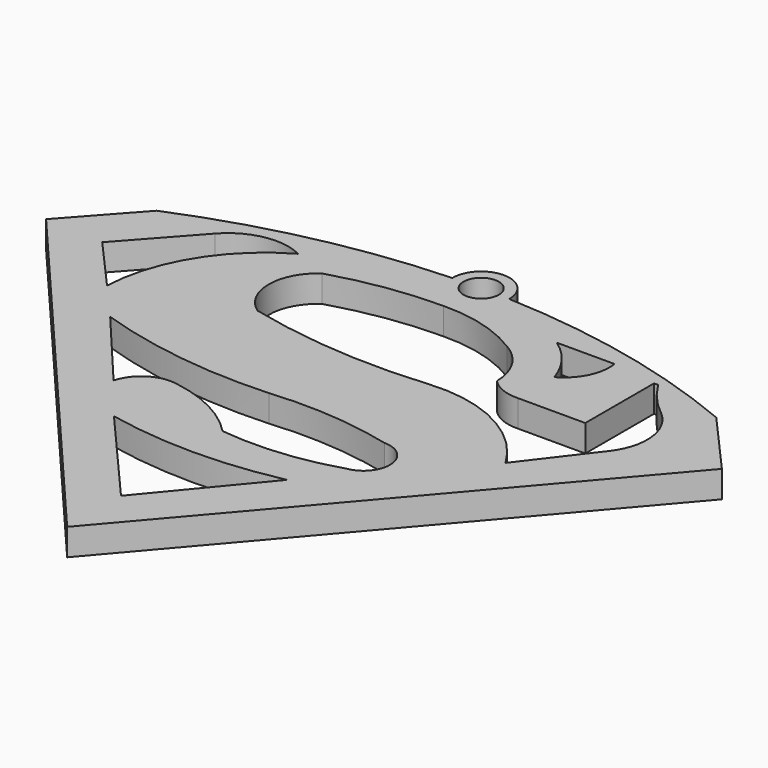
from build123d import *

# Parameters (mm, degrees)
F0_R     = 1.646615
F1_DEPTH = 2.5


with BuildPart() as f1:
    # F0 (on Top) → F1 (new body)
    with BuildSketch(Plane.XY):
        with BuildLine():
            Line((6.782061, 43.783344), (1.339942, 37.715692))
            Line((1.339942, 37.715692), (32.819644, 0.821015))
            Line((32.819644, 0.821015), (64.310387, 37.715692))
            Line((64.310387, 37.715692), (58.925344, 43.783344))
            ThreePointArc((58.925344, 43.783344), (47.44252, 47.407221), (35.499814, 48.94329))
            ThreePointArc((35.499814, 48.94329), (32.853702, 51.641547), (30.207591, 48.94329))
            ThreePointArc((30.207591, 48.94329), (18.264885, 47.407221), (6.782061, 43.783344))
        make_face()
        with BuildLine():
            Line((32.819644, 7.092091), (24.589587, 16.557606))
            ThreePointArc((24.589587, 16.557606), (32.641053, 15.739756), (40.688567, 16.595621))
            Line((40.688567, 16.595621), (32.819644, 7.092091))
        make_face(mode=Mode.SUBTRACT)
        with BuildLine():
            Line((21.048529, 20.941408), (14.59141, 28.613232))
            ThreePointArc((14.59141, 28.613232), (22.748484, 26.759595), (31.107601, 26.444944))
            ThreePointArc((31.107601, 26.444944), (36.884377, 26.48894), (42.587865, 25.57062))
            ThreePointArc((42.587865, 25.57062), (45.054234, 23.278847), (42.929992, 20.666799))
            ThreePointArc((42.929992, 20.666799), (37.63623, 19.601047), (32.236606, 19.662771))
            ThreePointArc((32.236606, 19.662771), (28.95818, 22.099502), (25.076237, 23.370819))
            ThreePointArc((25.076237, 23.370819), (22.571515, 22.969921), (21.048529, 20.941408))
        make_face(mode=Mode.SUBTRACT)
        with BuildLine():
            Line((6.797828, 37.432611), (12.359901, 43.634005))
            ThreePointArc((12.359901, 43.634005), (15.500384, 45.407012), (19.072747, 44.91264))
            ThreePointArc((19.072747, 44.91264), (13.576433, 39.615558), (11.336991, 32.318063))
            Line((11.336991, 32.318063), (6.797828, 37.432611))
        make_face(mode=Mode.SUBTRACT)
        with BuildLine():
            ThreePointArc((40.077727, 42.99771), (42.099228, 41.016634), (42.880543, 38.296215))
            ThreePointArc((42.880543, 38.296215), (44.197288, 37.406793), (45.764305, 37.143447))
            Line((45.764305, 37.143447), (52.037589, 37.143447))
            Line((52.037589, 37.143447), (52.037589, 45.151178))
            Line((52.037589, 45.151178), (52.417733, 45.151178))
            ThreePointArc((52.417733, 45.151178), (53.785755, 43.30495), (55.458862, 41.729908))
            ThreePointArc((55.458862, 41.729908), (57.179666, 38.407743), (56.161266, 34.80763))
            Line((56.161266, 34.80763), (51.429365, 28.615037))
            ThreePointArc((51.429365, 28.615037), (46.275115, 33.455977), (39.334364, 34.80763))
            ThreePointArc((39.334364, 34.80763), (30.791764, 34.74356), (22.352651, 36.070772))
            ThreePointArc((22.352651, 36.070772), (20.400938, 39.8231), (22.352651, 43.575428))
            ThreePointArc((22.352651, 43.575428), (27.346371, 44.717192), (32.453887, 45.109794))
            ThreePointArc((32.453887, 45.109794), (36.420763, 44.613084), (40.077727, 42.99771))
        make_face(mode=Mode.SUBTRACT)
        with BuildLine():
            Line((42.509425, 45.735132), (47.88902, 45.735132))
            ThreePointArc((47.88902, 45.735132), (47.514957, 43.22346), (45.764305, 41.383993))
            ThreePointArc((45.764305, 41.383993), (44.495575, 43.827896), (42.509425, 45.735132))
        make_face(mode=Mode.SUBTRACT)
        with Locations((32.853702, 48.994931)):
            Circle(F0_R, mode=Mode.SUBTRACT)
    extrude(amount=F1_DEPTH)


solid = f1.part
